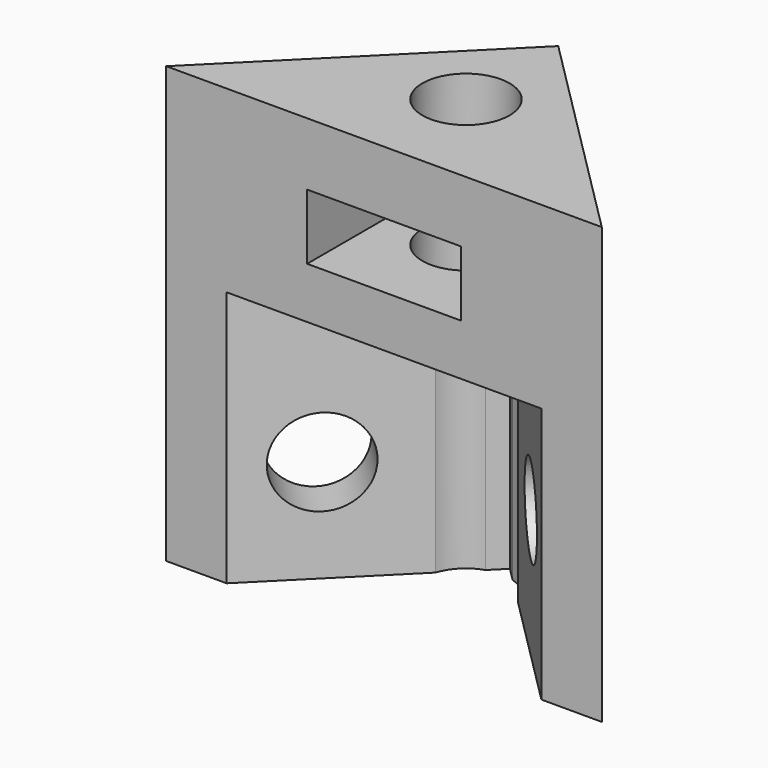
from build123d import *

# Parameters (mm, degrees)
SKETCH048_R       = 1.7
PAD023_DEPTH      = 17
BOX_W             = 6
BOX_H             = 20
BOX_DEPTH         = 2.55
BOX001_W          = 10
BOX001_H          = 10
BOX001_DEPTH      = 30
CYLINDER_R        = 1.7
CYLINDER_DEPTH    = 10
CYLINDER001_R     = 1.7
CYLINDER001_DEPTH = 11


with BuildPart() as part:
    # Sketch048 → Pad023 (new body)
    with BuildSketch(Plane.XY):
        Polygon((0, 4.5), (-8.5, -4), (8.5, -4), align=None)
        Circle(SKETCH048_R, mode=Mode.SUBTRACT)
    extrude(amount=PAD023_DEPTH)

    # Box → Box (cut)
    with BuildSketch(Plane(origin=(-3, -6, 12), x_dir=(1, 0, 0), z_dir=(0, 0, 1))):
        with Locations((3, 10)):
            Rectangle(BOX_W, BOX_H)
    extrude(amount=BOX_DEPTH, mode=Mode.SUBTRACT)

    # Box001 → Box001 (cut)
    with BuildSketch(Plane(origin=(0, -12, -20), x_dir=(0.707107, 0.707107, 0), z_dir=(0, 0, 1))):
        with Locations((5, 5)):
            Rectangle(BOX001_W, BOX001_H)
    extrude(amount=BOX001_DEPTH, mode=Mode.SUBTRACT)

    # Cylinder → Cylinder (cut)
    with BuildSketch(Plane(origin=(2, -4, 5), x_dir=(-0.707107, 0.707107, 0), z_dir=(0.707107, 0.707107, 0))):
        Circle(CYLINDER_R)
    extrude(amount=CYLINDER_DEPTH, mode=Mode.SUBTRACT)

    # Cylinder001 → Cylinder001 (cut)
    with BuildSketch(Plane(origin=(-10, 4, 4), x_dir=(0.707107, 0.707107, 0), z_dir=(0.707107, -0.707107, 0))):
        Circle(CYLINDER001_R)
    extrude(amount=CYLINDER001_DEPTH, mode=Mode.SUBTRACT)


solid = part.part
